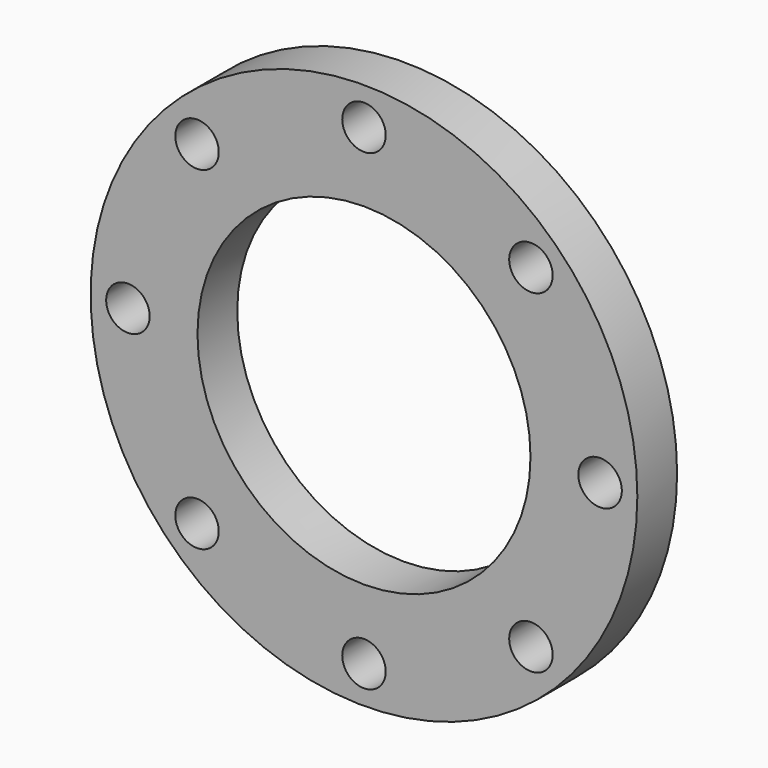
from build123d import *

# Parameters (mm, degrees)
F0_R     = 139.7
F0_R_2   = 85.09
F1_DEPTH = 25.4
F3_D     = 22.225


with BuildPart() as f1:
    # F0 (on Front) → F1 (new body)
    with BuildSketch(Plane.XZ):
        Circle(F0_R)
        Circle(F0_R_2, mode=Mode.SUBTRACT)
    extrude(amount=F1_DEPTH)

    # F3 (through all)
    with Locations(Plane.XZ.offset(25.4)):
        with Locations((-85.312433, 85.312433), (0, 120.65), (85.312433, 85.312433), (120.65, 0), (85.312433, -85.312433), (0, -120.65), (-85.312433, -85.312433), (-120.65, 0)):
            Hole(F3_D / 2)


solid = f1.part
